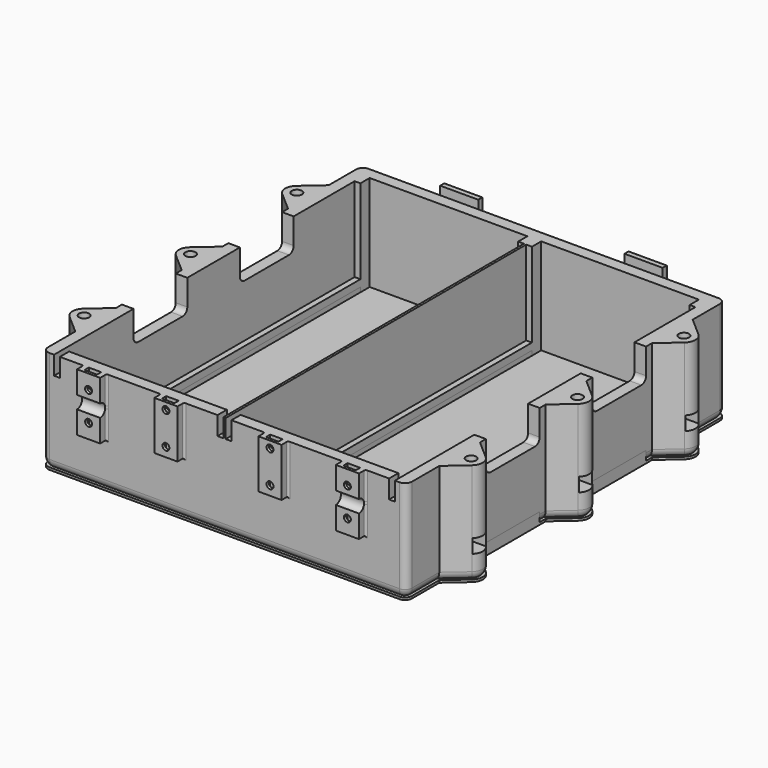
from build123d import *

# Parameters (mm, degrees)
PAD_DEPTH            = 44.5
POCKET_DEPTH         = 41.501
SKETCH002_W          = 2.5
SKETCH002_H          = 152.5
PAD001_DEPTH         = 5
POCKET001_DEPTH      = 15.001
POCKET002_DEPTH      = 15.001
SKETCH006_W          = 10
SKETCH006_H          = 7.1
POCKET003_DEPTH      = 6
POCKET004_DEPTH      = 5
SKETCH007_R          = 2.2
POCKET005_DEPTH      = 27.751
FILLET_R             = 4
FILLET001_R          = 3
SKETCH013_W          = 10
SKETCH013_H          = 25
PAD004_DEPTH         = 3.5
SKETCH021_W          = 16.5
SKETCH021_H          = 16.5
PAD006_DEPTH         = 8.25
POCKET009_DEPTH      = 88.701
POCKET009_DEPTH_BACK = 88.701
SKETCH015_R          = 1.5
POCKET010_DEPTH      = 3.501
POCKET011_DEPTH      = 2.3
SKETCH017_W          = 2.5
SKETCH017_H          = 10
POCKET012_DEPTH      = 8
SKETCH018_W          = 10
SKETCH018_H          = 21
PAD005_DEPTH         = 3.5
SKETCH019_R          = 1.5
POCKET013_DEPTH      = 3.501
POCKET014_DEPTH      = 2.3
FILLET002_R          = 1
FILLET003_R          = 1
FILLET004_R          = 0.8
FILLET005_R          = 0.8
FILLET006_R          = 0.8
FILLET007_R          = 0.8
FILLET008_R          = 0.8
FILLET009_R          = 0.8
PAD002_DEPTH         = 1
SKETCH011_R          = 2.2
SKETCH011_W          = 9.5
SKETCH011_H          = 162.5
POCKET008_DEPTH      = 1.001
SKETCH012_W          = 2.5
SKETCH012_H          = 152.5
PAD003_DEPTH         = 4


with BuildPart() as container:
    # Sketch → Pad (new body)
    with BuildSketch(Plane.XY):
        with BuildLine():
            Line((-78.7, 86.25), (78.7, 86.25))
            Line((78.7, 86.25), (78.7, 68.500002))
            Line((86.98767, 61.267124), (78.7, 68.500002))
            ThreePointArc((86.98767, 53.732876), (88.7, 57.5), (86.98767, 61.267124))
            Line((86.98767, 53.732876), (78.7, 46.499998))
            Line((78.7, 46.499998), (78.7, 11.000002))
            Line((86.98767, 3.767124), (78.7, 11.000002))
            ThreePointArc((86.98767, -3.767124), (88.7, 0), (86.98767, 3.767124))
            Line((86.98767, -3.767124), (78.7, -11.000002))
            Line((78.7, -11.000002), (78.7, -46.499998))
            Line((86.98767, -53.732876), (78.7, -46.499998))
            ThreePointArc((86.98767, -61.267124), (88.7, -57.5), (86.98767, -53.732876))
            Line((86.98767, -61.267124), (78.7, -68.500002))
            Line((78.7, -68.500002), (78.7, -86.25))
            Line((78.7, -86.25), (-78.7, -86.25))
            Line((-78.7, -86.25), (-78.7, -68.500001))
            Line((-86.987671, -61.267124), (-78.7, -68.500001))
            ThreePointArc((-86.987671, -53.732876), (-88.7, -57.5), (-86.987671, -61.267124))
            Line((-86.987671, -53.732876), (-78.7, -46.499999))
            Line((-78.7, -46.499999), (-78.7, -11.000016))
            Line((-86.987663, -3.76713), (-78.7, -11.000016))
            ThreePointArc((-86.987663, 3.76713), (-88.7, 0), (-86.987663, -3.76713))
            Line((-86.987663, 3.76713), (-78.7, 11.000016))
            Line((-78.7, 11.000016), (-78.7, 46.499979))
            Line((-86.987661, 53.732868), (-78.7, 46.499979))
            ThreePointArc((-86.987666, 61.267128), (-88.7, 57.499997), (-86.987661, 53.732868))
            Line((-86.987666, 61.267128), (-78.7, 68.500011))
            Line((-78.7, 68.500011), (-78.7, 86.25))
        make_face()
    extrude(amount=PAD_DEPTH)

    # Sketch001 (on DatumPlane) → Pocket (cut, through all)
    with BuildSketch(Plane.XY.offset(3)):
        Polygon((-0.5, 76.25), (-0.5, -76.25), (-3, -76.25), (-3, -81.25), (-71.2, -81.25), (-71.2, -76.25), (-73.7, -76.25), (-73.7, 76.25), (-71.2, 76.25), (-71.2, 81.25), (-3, 81.25), (-3, 76.25), align=None)
        Polygon((0.5, 76.25), (0.5, -76.25), (3, -76.25), (3, -81.25), (71.2, -81.25), (71.2, -76.25), (73.7, -76.25), (73.7, 76.25), (71.2, 76.25), (71.2, 81.25), (3, 81.25), (3, 76.25), align=None)
    extrude(amount=POCKET_DEPTH, mode=Mode.SUBTRACT)

    # Sketch002 (on DatumPlane) → Pad001 (join)
    with BuildSketch(Plane.XY.offset(3)):
        with Locations((-72.45, 0)):
            Rectangle(SKETCH002_W, SKETCH002_H)
        with Locations((72.45, 0)):
            Rectangle(SKETCH002_W, SKETCH002_H)
        with Locations((-1.75, 0)):
            Rectangle(SKETCH002_W, SKETCH002_H)
        with Locations((1.75, 0)):
            Rectangle(SKETCH002_W, SKETCH002_H)
    extrude(amount=PAD001_DEPTH)

    # Sketch003 (on DatumPlane) → Pocket001 (cut, through all)
    with BuildSketch(Plane.YZ.offset(73.7)):
        with BuildLine():
            Line((-40.75, 30.835), (-16.75, 30.835))
            ThreePointArc((-16.75, 30.835), (-14.953949, 31.578949), (-14.21, 33.375))
            Line((-14.21, 33.375), (-14.21, 53.625))
            Line((-14.21, 53.625), (-43.29, 53.625))
            Line((-43.29, 53.625), (-43.29, 33.375))
            ThreePointArc((-43.29, 33.375), (-42.546051, 31.578949), (-40.75, 30.835))
        make_face()
        with BuildLine():
            Line((16.75, 30.835), (40.75, 30.835))
            ThreePointArc((40.75, 30.835), (42.546051, 31.578949), (43.29, 33.375))
            Line((43.29, 53.625), (43.29, 33.375))
            Line((14.21, 53.625), (43.29, 53.625))
            Line((14.21, 33.375), (14.21, 53.625))
            ThreePointArc((14.21, 33.375), (14.953949, 31.578949), (16.75, 30.835))
        make_face()
    extrude(amount=POCKET001_DEPTH, mode=Mode.SUBTRACT)

    # Sketch004 (on DatumPlane) → Pocket002 (cut, through all)
    with BuildSketch(Plane.YZ.offset(-73.7)):
        with BuildLine():
            ThreePointArc((-43.29, 33.375), (-42.546051, 31.578949), (-40.75, 30.835))
            Line((-40.75, 30.835), (-16.75, 30.835))
            ThreePointArc((-16.75, 30.835), (-14.953949, 31.578949), (-14.21, 33.375))
            Line((-14.21, 53.625), (-14.21, 33.375))
            Line((-43.29, 53.625), (-14.21, 53.625))
            Line((-43.29, 53.625), (-43.29, 33.375))
        make_face()
        with BuildLine():
            ThreePointArc((14.21, 33.375), (14.953949, 31.578949), (16.75, 30.835))
            Line((16.75, 30.835), (40.75, 30.835))
            ThreePointArc((40.75, 30.835), (42.546051, 31.578949), (43.29, 33.375))
            Line((43.29, 53.625), (43.29, 33.375))
            Line((14.21, 53.625), (43.29, 53.625))
            Line((14.21, 53.625), (14.21, 33.375))
        make_face()
    extrude(amount=-POCKET002_DEPTH, mode=Mode.SUBTRACT)

    # Sketch006 (on DatumPlane) → Pocket003 (cut)
    with BuildSketch(Plane.XY.offset(16.75)):
        with Locations((-84.600813, 57.5)):
            Rectangle(SKETCH006_W, SKETCH006_H)
        with Locations((-84.600813, 0)):
            Rectangle(SKETCH006_W, SKETCH006_H)
        with Locations((-84.600813, -57.5)):
            Rectangle(SKETCH006_W, SKETCH006_H)
        with Locations((84.600813, -57.5)):
            Rectangle(SKETCH006_W, SKETCH006_H)
        with Locations((84.600813, 0)):
            Rectangle(SKETCH006_W, SKETCH006_H)
        with Locations((84.600813, 57.5)):
            Rectangle(SKETCH006_W, SKETCH006_H)
    extrude(amount=-POCKET003_DEPTH, mode=Mode.SUBTRACT)

    # Sketch005 (on DatumPlane) → Pocket004 (cut)
    with BuildSketch(Plane.XY.offset(16.75)):
        Polygon((-79.600813, 57.5), (-81.650407, 61.05), (-85.749593, 61.05), (-87.799187, 57.5), (-85.749593, 53.95), (-81.650407, 53.95), align=None)
        Polygon((-79.600813, 0), (-81.650407, 3.55), (-85.749593, 3.55), (-87.799187, 0), (-85.749593, -3.55), (-81.650407, -3.55), align=None)
        Polygon((-81.650407, -61.05), (-79.600813, -57.5), (-81.650407, -53.95), (-85.749593, -53.95), (-87.799187, -57.5), (-85.749593, -61.05), align=None)
        Polygon((79.600813, -57.5), (81.650407, -61.05), (85.749593, -61.05), (87.799187, -57.5), (85.749593, -53.95), (81.650407, -53.95), align=None)
        Polygon((79.600813, 0), (81.650407, -3.55), (85.749593, -3.55), (87.799187, 0), (85.749593, 3.55), (81.650407, 3.55), align=None)
        Polygon((79.600813, 57.5), (81.650407, 53.95), (85.749593, 53.95), (87.799187, 57.5), (85.749593, 61.05), (81.650407, 61.05), align=None)
    extrude(amount=POCKET004_DEPTH, mode=Mode.SUBTRACT)

    # Sketch007 (on DatumPlane) → Pocket005 (cut, through all)
    with BuildSketch(Plane.XY.offset(16.75)):
        with Locations((-83.7, 57.5)):
            Circle(SKETCH007_R)
        with Locations((-83.7, 0)):
            Circle(SKETCH007_R)
        with Locations((-83.7, -57.5)):
            Circle(SKETCH007_R)
        with Locations((83.7, -57.5)):
            Circle(SKETCH007_R)
        with Locations((83.7, 0)):
            Circle(SKETCH007_R)
        with Locations((83.7, 57.5)):
            Circle(SKETCH007_R)
    extrude(amount=POCKET005_DEPTH, mode=Mode.SUBTRACT)

    # Fillet
    fillet_edges = [container.edges().sort_by_distance(p)[0] for p in [
        (-82.843833, 64.88357, 0),
        (-78.7, 77.375006, 0),
        (0, 86.25, 0),
        (78.7, 77.375001, 0),
        (82.843835, 64.883563, 0),
        (88.7, 57.5, 0),
        (82.843835, 50.116437, 0),
        (78.7, 28.75, 0),
        (82.843835, 7.383563, 0),
        (88.7, 0, 0),
        (82.843835, -7.383563, 0),
        (78.7, -28.75, 0),
        (82.843835, -50.116437, 0),
        (88.7, -57.5, 0),
        (82.843835, -64.883563, 0),
        (78.7, -77.375001, 0),
        (0, -86.25, 0),
        (-78.7, -77.375, 0),
        (-82.843835, -64.883562, 0),
        (-88.7, -57.5, 0),
        (-82.843835, -50.116438, 0),
        (-78.7, -28.750008, 0),
        (-82.843832, -7.383573, 0),
        (-88.7, 0, 0),
        (-82.843832, 7.383573, 0),
        (-78.7, 28.749998, 0),
        (-82.84383, 50.116423, 0),
        (-88.7, 57.499997, 0),
    ]]
    fillet(fillet_edges, radius=FILLET_R)

    # Fillet001
    fillet001_edges = [container.edges().sort_by_distance(p)[0] for p in [
        (78.7, -86.25, 24.25),
        (78.7, 86.25, 24.25),
        (-78.7, -86.25, 24.25),
        (-78.7, 86.25, 24.25),
    ]]
    fillet(fillet001_edges, radius=FILLET001_R)

    # Sketch013 (on DatumPlane) → Pad004 (join)
    with BuildSketch(Plane.XZ.offset(86.25)):
        with Locations((-55.966667, 32)):
            Rectangle(SKETCH013_W, SKETCH013_H)
        with Locations((55.966667, 32)):
            Rectangle(SKETCH013_W, SKETCH013_H)
    extrude(amount=PAD004_DEPTH)

    # Sketch021 (on DatumPlane) → Pad006 (join)
    with BuildSketch(Plane(origin=(-1, 86.25, 0), x_dir=(1, 0, 0), z_dir=(0, -1, 0))):
        with Locations((-39.85, 36.25)):
            Rectangle(SKETCH021_W, SKETCH021_H)
        with Locations((39.85, 36.25)):
            Rectangle(SKETCH021_W, SKETCH021_H)
    extrude(amount=-PAD006_DEPTH)

    # Sketch014 (on DatumPlane) → Pocket009 (cut, two sides)
    with BuildSketch(Plane.YZ) as pocket009_sk:
        with BuildLine():
            ThreePointArc((-89.75, 29.25), (-87, 32), (-89.75, 34.75))
            Line((-89.75, 34.75), (-89.75, 29.25))
        make_face()
        with BuildLine():
            ThreePointArc((86.25, 36.25), (89, 33.5), (91.75, 36.25))
            Line((91.75, 36.25), (91.75, 44.5))
            Line((91.75, 44.5), (86.25, 44.5))
            Line((86.25, 36.25), (86.25, 44.5))
        make_face()
    extrude(amount=-POCKET009_DEPTH, mode=Mode.SUBTRACT)
    extrude(pocket009_sk.sketch, amount=POCKET009_DEPTH_BACK, mode=Mode.SUBTRACT)

    # Sketch015 (on DatumPlane) → Pocket010 (cut, through all)
    with BuildSketch(Plane.XZ.offset(86.25)):
        with Locations((-55.966667, 38.25)):
            Circle(SKETCH015_R)
        with Locations((-55.966667, 25.75)):
            Circle(SKETCH015_R)
        with Locations((55.966667, 38.25)):
            Circle(SKETCH015_R)
        with Locations((55.966667, 25.75)):
            Circle(SKETCH015_R)
    extrude(amount=POCKET010_DEPTH, mode=Mode.SUBTRACT)

    # Sketch016 (on DatumPlane) → Pocket011 (cut)
    with BuildSketch(Plane.XZ.offset(86.25)):
        Polygon((-53.266667, 36.691154), (-53.266667, 39.808846), (-53.266667, 46.058846), (-58.666667, 46.058846), (-58.666667, 39.808846), (-58.666667, 36.691154), (-55.966667, 35.132309), align=None)
        Polygon((-53.266667, 24.191154), (-53.266667, 27.308846), (-55.966667, 28.867691), (-58.666667, 27.308846), (-58.666667, 24.191154), (-58.666667, 17.941154), (-53.266667, 17.941154), align=None)
        Polygon((53.266667, 39.808846), (53.266667, 36.691154), (55.966667, 35.132309), (58.666667, 36.691154), (58.666667, 39.808846), (58.666667, 46.058846), (53.266667, 46.058846), align=None)
        Polygon((58.666667, 24.191154), (58.666667, 27.308846), (55.966667, 28.867691), (53.266667, 27.308846), (53.266667, 24.191154), (53.266667, 17.941154), (58.666667, 17.941154), align=None)
    extrude(amount=POCKET011_DEPTH, mode=Mode.SUBTRACT)

    # Sketch017 (on DatumPlane) → Pocket012 (cut)
    with BuildSketch(Plane.XY.offset(44.5)):
        with Locations((-72.45, -81.25)):
            Rectangle(SKETCH017_W, SKETCH017_H)
        with Locations((-1.75, -81.25)):
            Rectangle(SKETCH017_W, SKETCH017_H)
        with Locations((1.75, -81.25)):
            Rectangle(SKETCH017_W, SKETCH017_H)
        with Locations((72.45, -81.25)):
            Rectangle(SKETCH017_W, SKETCH017_H)
    extrude(amount=-POCKET012_DEPTH, mode=Mode.SUBTRACT)

    # Sketch018 (on DatumPlane) → Pad005 (join)
    with BuildSketch(Plane.XZ.offset(86.25)):
        with Locations((-22.5, 34)):
            Rectangle(SKETCH018_W, SKETCH018_H)
        with Locations((22.5, 34)):
            Rectangle(SKETCH018_W, SKETCH018_H)
    extrude(amount=PAD005_DEPTH)

    # Sketch019 (on DatumPlane) → Pocket013 (cut, through all)
    with BuildSketch(Plane.XZ.offset(86.25)):
        with Locations((22.5, 41.5)):
            Circle(SKETCH019_R)
        with Locations((22.5, 27.5)):
            Circle(SKETCH019_R)
        with Locations((-22.5, 41.5)):
            Circle(SKETCH019_R)
        with Locations((-22.5, 27.5)):
            Circle(SKETCH019_R)
    extrude(amount=POCKET013_DEPTH, mode=Mode.SUBTRACT)

    # Sketch020 (on DatumPlane) → Pocket014 (cut)
    with BuildSketch(Plane.XZ.offset(86.25)):
        Polygon((25.2, 39.941154), (25.2, 43.058846), (25.2, 44.5), (19.8, 44.5), (19.8, 43.058846), (19.8, 39.941154), (22.5, 38.382309), align=None)
        Polygon((25.2, 25.941154), (25.2, 29.058846), (22.5, 30.617691), (19.8, 29.058846), (19.8, 25.941154), (19.8, 23.5), (25.2, 23.5), align=None)
        Polygon((-19.8, 25.941154), (-19.8, 29.058846), (-22.5, 30.617691), (-25.2, 29.058846), (-25.2, 25.941154), (-25.2, 23.5), (-19.8, 23.5), align=None)
        Polygon((-19.8, 39.941154), (-19.8, 43.058846), (-19.8, 44.5), (-25.2, 44.5), (-25.2, 43.058846), (-25.2, 39.941154), (-22.5, 38.382309), align=None)
    extrude(amount=POCKET014_DEPTH, mode=Mode.SUBTRACT)

    # Fillet002
    fillet002_edges = [container.edges().sort_by_distance(p)[0] for p in [
        (-32.6, 90.375, 28),
        (-49.1, 90.375, 28),
        (-40.85, 86.25, 28),
        (-40.85, 94.5, 28),
    ]]
    fillet(fillet002_edges, radius=FILLET002_R)

    # Fillet003
    fillet003_edges = [container.edges().sort_by_distance(p)[0] for p in [
        (47.1, 90.375, 28),
        (30.6, 90.375, 28),
        (38.85, 86.25, 28),
        (38.85, 94.5, 28),
    ]]
    fillet(fillet003_edges, radius=FILLET003_R)

    # Fillet004
    fillet004_edges = [container.edges().sort_by_distance(p)[0] for p in [
        (-32.6, 94.5, 36.75),
        (-40.85, 94.5, 29),
        (-40.85, 94.5, 44.5),
        (-49.1, 94.5, 36.75),
    ]]
    fillet(fillet004_edges, radius=FILLET004_R)

    # Fillet005
    fillet005_edges = [container.edges().sort_by_distance(p)[0] for p in [
        (47.1, 94.5, 36.75),
        (38.85, 94.5, 29),
        (38.85, 94.5, 44.5),
        (30.6, 94.5, 36.75),
    ]]
    fillet(fillet005_edges, radius=FILLET005_R)

    # Fillet006
    fillet006_edges = [container.edges().sort_by_distance(p)[0] for p in [
        (-60.966667, -86.25, 32),
        (-52.116667, -86.25, 19.5),
        (-59.816667, -86.25, 19.5),
        (-50.966667, -86.25, 32),
    ]]
    fillet(fillet006_edges, radius=FILLET006_R)

    # Fillet007
    fillet007_edges = [container.edges().sort_by_distance(p)[0] for p in [
        (-27.5, -86.25, 34),
        (-26.35, -86.25, 23.5),
        (-18.65, -86.25, 23.5),
        (-17.5, -86.25, 34),
    ]]
    fillet(fillet007_edges, radius=FILLET007_R)

    # Fillet008
    fillet008_edges = [container.edges().sort_by_distance(p)[0] for p in [
        (26.35, -86.25, 23.5),
        (18.65, -86.25, 23.5),
        (27.5, -86.25, 34),
        (17.5, -86.25, 34),
    ]]
    fillet(fillet008_edges, radius=FILLET008_R)

    # Fillet009
    fillet009_edges = [container.edges().sort_by_distance(p)[0] for p in [
        (52.116667, -86.25, 19.5),
        (59.816667, -86.25, 19.5),
        (60.966667, -86.25, 32),
        (50.966667, -86.25, 32),
    ]]
    fillet(fillet009_edges, radius=FILLET009_R)


with BuildPart() as cover:
    # Sketch010 → Pad002 (new body)
    with BuildSketch(Plane.XY):
        with BuildLine():
            Line((-75.7, 86.25), (75.7, 86.25))
            ThreePointArc((78.7, 83.25), (77.82132, 85.37132), (75.7, 86.25))
            Line((78.7, 68.500002), (78.7, 83.25))
            Line((86.98767, 61.267124), (78.7, 68.500002))
            ThreePointArc((86.98767, 53.732876), (88.7, 57.5), (86.98767, 61.267124))
            Line((78.7, 46.499998), (86.98767, 53.732876))
            Line((78.7, 11.000002), (78.7, 46.499998))
            Line((86.98767, 3.767124), (78.7, 11.000002))
            ThreePointArc((86.98767, -3.767124), (88.7, 0), (86.98767, 3.767124))
            Line((78.7, -11.000002), (86.98767, -3.767124))
            Line((78.7, -46.499998), (78.7, -11.000002))
            Line((86.98767, -53.732876), (78.7, -46.499998))
            ThreePointArc((86.98767, -61.267124), (88.7, -57.5), (86.98767, -53.732876))
            Line((78.7, -68.500002), (86.98767, -61.267124))
            Line((78.7, -83.25), (78.7, -68.500002))
            ThreePointArc((75.7, -86.25), (77.82132, -85.37132), (78.7, -83.25))
            Line((-75.7, -86.25), (75.7, -86.25))
            ThreePointArc((-78.7, -83.25), (-77.82132, -85.37132), (-75.7, -86.25))
            Line((-78.7, -68.500001), (-78.7, -83.25))
            Line((-86.987671, -61.267124), (-78.7, -68.500001))
            ThreePointArc((-86.987671, -53.732876), (-88.7, -57.5), (-86.987671, -61.267124))
            Line((-78.7, -46.499999), (-86.987671, -53.732876))
            Line((-78.7, -11.000016), (-78.7, -46.499999))
            Line((-86.987663, -3.76713), (-78.7, -11.000016))
            ThreePointArc((-86.987663, 3.76713), (-88.7, 0), (-86.987663, -3.76713))
            Line((-78.7, 11.000016), (-86.987663, 3.76713))
            Line((-78.7, 46.499979), (-78.7, 11.000016))
            Line((-86.987661, 53.732868), (-78.7, 46.499979))
            ThreePointArc((-86.987666, 61.267128), (-88.7, 57.499997), (-86.987661, 53.732868))
            Line((-78.7, 68.500011), (-86.987666, 61.267128))
            Line((-78.7, 83.25), (-78.7, 68.500011))
            ThreePointArc((-75.7, 86.25), (-77.82132, 85.37132), (-78.7, 83.25))
        make_face()
    extrude(amount=PAD002_DEPTH)

    # Sketch011 → Pocket008 (cut, through all)
    with BuildSketch(Plane.XY):
        with Locations((-83.7, 57.5)):
            Circle(SKETCH011_R)
        with Locations((-83.7, 0)):
            Circle(SKETCH011_R)
        with Locations((-83.7, -57.5)):
            Circle(SKETCH011_R)
        with Locations((83.7, -57.5)):
            Circle(SKETCH011_R)
        with Locations((83.7, 0)):
            Circle(SKETCH011_R)
        with Locations((83.7, 57.5)):
            Circle(SKETCH011_R)
        with Locations((-66.45, 0)):
            Rectangle(SKETCH011_W, SKETCH011_H)
        with Locations((-7.75, 0)):
            Rectangle(SKETCH011_W, SKETCH011_H)
        with Locations((7.75, 0)):
            Rectangle(SKETCH011_W, SKETCH011_H)
        with Locations((66.45, 0)):
            Rectangle(SKETCH011_W, SKETCH011_H)
    extrude(amount=POCKET008_DEPTH, mode=Mode.SUBTRACT)

    # Sketch012 (on DatumPlane) → Pad003 (join)
    with BuildSketch(Plane.XY.offset(1)):
        Polygon((-73.7, -76.25), (-71.2, -76.25), (-71.2, 76.25), (-73.7, 76.25), (-73.7, 43.29), (-78.7, 43.29), (-78.7, 14.21), (-73.7, 14.21), (-73.7, -14.21), (-78.7, -14.21), (-78.7, -43.29), (-73.7, -43.29), align=None)
        Polygon((71.2, 76.25), (73.7, 76.25), (73.7, 43.29), (78.7, 43.29), (78.7, 14.21), (73.7, 14.21), (73.7, -14.21), (78.7, -14.21), (78.7, -43.29), (73.7, -43.29), (73.7, -76.25), (71.2, -76.25), align=None)
        with Locations((-1.75, 0)):
            Rectangle(SKETCH012_W, SKETCH012_H)
        with Locations((1.75, 0)):
            Rectangle(SKETCH012_W, SKETCH012_H)
    extrude(amount=PAD003_DEPTH)


solid = Compound([container.part, cover.part])
